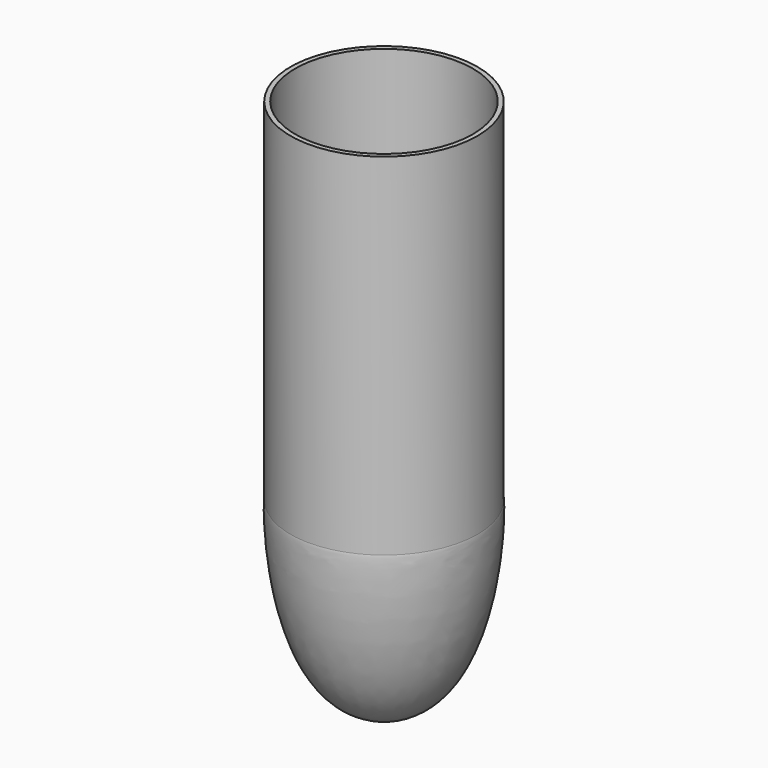
from build123d import *

# Parameters (mm, degrees)
F0_R     = 16
F1_DEPTH = 60
F2_R     = 15.2
F3_DEPTH = 59.6


with BuildPart() as f1:
    # F0 (on Top) → F1 (new body)
    with BuildSketch(Plane.XY):
        Circle(F0_R)
    extrude(amount=F1_DEPTH)

    # F2 (on face) → F3 (cut)
    with BuildSketch(Plane.XY.offset(60)):
        Circle(F2_R)
    extrude(amount=-F3_DEPTH, mode=Mode.SUBTRACT)

    # F5 (on Front) → F7 (revolve)
    with BuildSketch(Plane.XZ):
        with BuildLine():
            Line((0, 0), (0, -32))
            add(Edge.make_bspline(
                [(0, -32), (16.291009, -32), (16.291009, -0.489182), (16, 0)],
                knots=[0, 0, 0, 0, 35.777088, 35.777088, 35.777088, 35.777088], degree=3))
            Line((16, 0), (0, 0))
        make_face()
    revolve(axis=Axis((0, 0, 19.230902), (0, 0, 1)))


solid = f1.part
